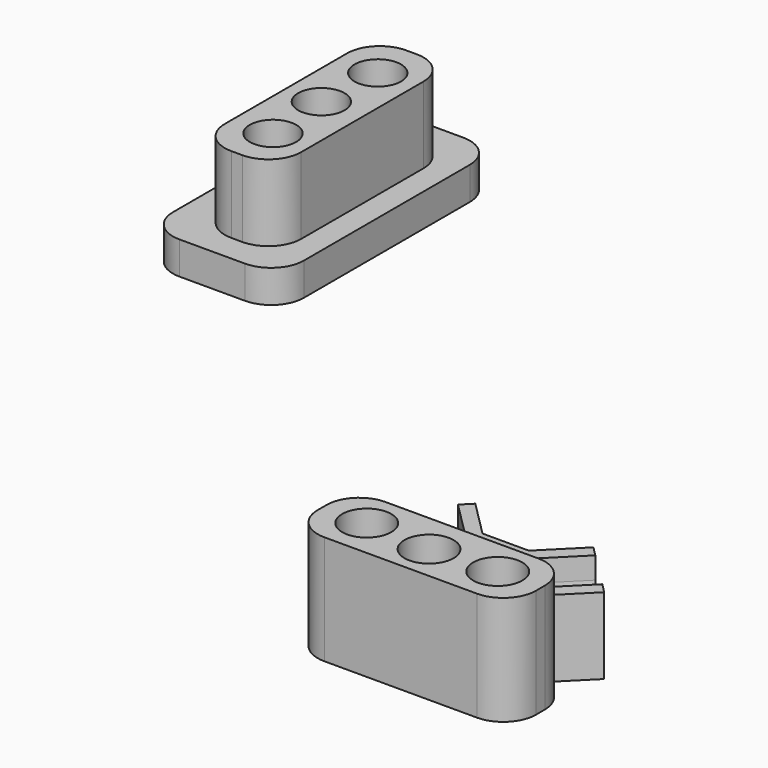
from build123d import *

# Parameters (mm, degrees)
F0_R      = 2.125
F1_DEPTH  = 10
F2_DEPTH  = 3
F0_R_2    = 2.25
F3_DEPTH  = 10
F4_DEPTH  = 7
F5_DEPTH  = 5
F8_DEPTH  = 6
F10_DEPTH = 6
F11_SIZE  = 3


with BuildPart() as f1:
    # F0 (on Top) → F1 (new body)
    with BuildSketch(Plane.XY):
        with BuildLine():
            Line((-49.5571117928, -10), (-48.5571117928, -10))
            ThreePointArc((-48.5571117928, -10), (-46.4357914492, -9.1213203436), (-45.5571117928, -7))
            Line((-45.5571117928, -7), (-45.5571117928, 7))
            ThreePointArc((-45.5571117928, 7), (-46.4357914492, 9.1213203436), (-48.5571117928, 10))
            Line((-48.5571117928, 10), (-49.5571117928, 10))
            ThreePointArc((-49.5571117928, 10), (-51.6784321364, 9.1213203436), (-52.5571117928, 7))
            Line((-52.5571117928, 7), (-52.5571117928, -7))
            ThreePointArc((-52.5571117928, -7), (-51.6784321364, -9.1213203436), (-49.5571117928, -10))
        make_face()
        with Locations((-48.9442686478, -6)):
            Circle(F0_R, mode=Mode.SUBTRACT)
        with Locations((-49.3106624724, 0)):
            Circle(F0_R, mode=Mode.SUBTRACT)
        with Locations((-48.9442686478, 6)):
            Circle(F0_R, mode=Mode.SUBTRACT)
    extrude(amount=F1_DEPTH)

    # F0 (on Top) → F2 (join)
    with BuildSketch(Plane.XY):
        with BuildLine():
            Line((-46.3106624724, 12.5), (-52.3106624724, 12.5))
            ThreePointArc((-52.3106624724, 12.5), (-54.4319828159, 11.6213203436), (-55.3106624724, 9.5))
            Line((-55.3106624724, 9.5), (-55.3106624724, -9.5))
            ThreePointArc((-55.3106624724, -9.5), (-54.4319828159, -11.6213203436), (-52.3106624724, -12.5))
            Line((-52.3106624724, -12.5), (-46.3106624724, -12.5))
            ThreePointArc((-46.3106624724, -12.5), (-44.1893421288, -11.6213203436), (-43.3106624724, -9.5))
            Line((-43.3106624724, -9.5), (-43.3106624724, 9.5))
            ThreePointArc((-43.3106624724, 9.5), (-44.1893421288, 11.6213203436), (-46.3106624724, 12.5))
        make_face()
        with BuildLine():
            ThreePointArc((-45.5571117928, -7), (-46.4357914492, -9.1213203436), (-48.5571117928, -10))
            Line((-48.5571117928, -10), (-49.5571117928, -10))
            ThreePointArc((-49.5571117928, -10), (-51.6784321364, -9.1213203436), (-52.5571117928, -7))
            Line((-52.5571117928, -7), (-52.5571117928, 7))
            ThreePointArc((-52.5571117928, 7), (-51.6784321364, 9.1213203436), (-49.5571117928, 10))
            Line((-49.5571117928, 10), (-48.5571117928, 10))
            ThreePointArc((-48.5571117928, 10), (-46.4357914492, 9.1213203436), (-45.5571117928, 7))
            Line((-45.5571117928, 7), (-45.5571117928, -7))
        make_face(mode=Mode.SUBTRACT)
        with Locations((-48.9442686478, 6)):
            Circle(F0_R)
        with Locations((-49.3106624724, 0)):
            Circle(F0_R)
        with Locations((-48.9442686478, -6)):
            Circle(F0_R)
    extrude(amount=F2_DEPTH)


with BuildPart() as f3:
    # F0 (on Top) → F3 (new body)
    with BuildSketch(Plane.XY):
        with BuildLine():
            Line((-5.232233047, -45.5571117928), (-7, -45.5571117928))
            ThreePointArc((-7, -45.5571117928), (-9.1213203436, -46.4357914492), (-10, -48.5571117928))
            Line((-10, -48.5571117928), (-10, -49.5571117928))
            ThreePointArc((-10, -49.5571117928), (-9.1213203436, -51.6784321364), (-7, -52.5571117928))
            Line((-7, -52.5571117928), (7, -52.5571117928))
            ThreePointArc((7, -52.5571117928), (9.1213203436, -51.6784321364), (10, -49.5571117928))
            Line((10, -49.5571117928), (10, -48.5571117928))
            ThreePointArc((10, -48.5571117928), (9.1213203436, -46.4357914492), (7, -45.5571117928))
            Line((7, -45.5571117928), (5.232233047, -45.5571117928))
            Line((5.232233047, -45.5571117928), (-2.8994949366, -45.5571117928))
            Line((-2.8994949366, -45.5571117928), (-5.232233047, -45.5571117928))
        make_face()
        with Locations((-6, -48.9442686478)):
            Circle(F0_R_2, mode=Mode.SUBTRACT)
        with Locations((0, -49.3106624724)):
            Circle(F0_R_2, mode=Mode.SUBTRACT)
        with Locations((6, -48.9442686478)):
            Circle(F0_R_2, mode=Mode.SUBTRACT)
    extrude(amount=F3_DEPTH)


with BuildPart() as f4:
    # F0 (on Top) → F4 (new body)
    with BuildSketch(Plane.XY):
        Polygon((-2.0502525317, -42.3751312775), (-5.232233047, -45.5571117928), (-2.8994949366, -45.5571117928), (5.232233047, -45.5571117928), (2.0502525317, -42.3751312775), (6.2928932188, -38.1324905903), (5.4090097423, -37.2486071138), (0, -42.6576168562), (-5.4090097423, -37.2486071138), (-6.2928932188, -38.1324905903), align=None)
    extrude(amount=F4_DEPTH)


with BuildPart() as f4b:
    # F0 (on Top) → F4, piece 2 (new body)
    with BuildSketch(Plane.XY):
        Polygon((9.4748737342, -41.3144711057), (5.232233047, -45.5571117928), (7, -45.5571117928), (10.3587572106, -42.1983545822), align=None)
    extrude(amount=F4_DEPTH)


with BuildPart() as f4c:
    # F0 (on Top) → F4, piece 3 (new body)
    with BuildSketch(Plane.XY):
        Polygon((-10.3587572106, -42.1983545822), (-7, -45.5571117928), (-5.232233047, -45.5571117928), (-9.4748737342, -41.3144711057), align=None)
    extrude(amount=F4_DEPTH)


with BuildPart() as f5:
    # F0 (on Top) → F5 (new body)
    with BuildSketch(Plane.XY):
        Polygon((-9.4748737342, -41.3144711057), (-5.232233047, -45.5571117928), (-2.0502525317, -42.3751312775), (-6.2928932188, -38.1324905903), align=None)
    extrude(amount=F5_DEPTH)


with BuildPart() as f5b:
    # F0 (on Top) → F5, piece 2 (new body)
    with BuildSketch(Plane.XY):
        Polygon((2.0502525317, -42.3751312775), (5.232233047, -45.5571117928), (9.4748737342, -41.3144711057), (6.2928932188, -38.1324905903), align=None)
    extrude(amount=F5_DEPTH)


with BuildPart() as f3_1:
    add(f3.part)

    # F6: union F5, F4, F4c, F5b, F4b
    add(f5.part)
    add(f4.part)
    add(f4c.part)
    add(f5b.part)
    add(f4b.part)

    # F7 (on face) → F8 (cut, through all)
    with BuildSketch(Plane(origin=(-15.9197986858, -15.9197986858, 0), x_dir=(-0.7071067812, 0.7071067812, 0), z_dir=(0.7071067812, 0.7071067812, 0))):
        with BuildLine():
            Line((-31.4134901483, 5), (-35.9134901483, 5))
            ThreePointArc((-35.9134901483, 5), (-33.6634901483, 2.75), (-31.4134901483, 5))
        make_face()
    extrude(amount=-F8_DEPTH, mode=Mode.SUBTRACT)

    # F9 (on face) → F10 (cut, through all)
    with BuildSketch(Plane(origin=(15.9197986858, -15.9197986858, 0), x_dir=(-0.7071067812, -0.7071067812, 0), z_dir=(-0.7071067812, 0.7071067812, 0))):
        with BuildLine():
            Line((35.9134901483, 5), (31.4134901483, 5))
            ThreePointArc((31.4134901483, 5), (33.6634901483, 2.75), (35.9134901483, 5))
        make_face()
    extrude(amount=-F10_DEPTH, mode=Mode.SUBTRACT)

    # F11
    f11_edges = [f3_1.edges().sort_by_distance(p)[0] for p in [
        (0, -42.657617, 3.5),
    ]]
    chamfer(f11_edges, length=F11_SIZE)


solid = Compound([f1.part, f3_1.part])
